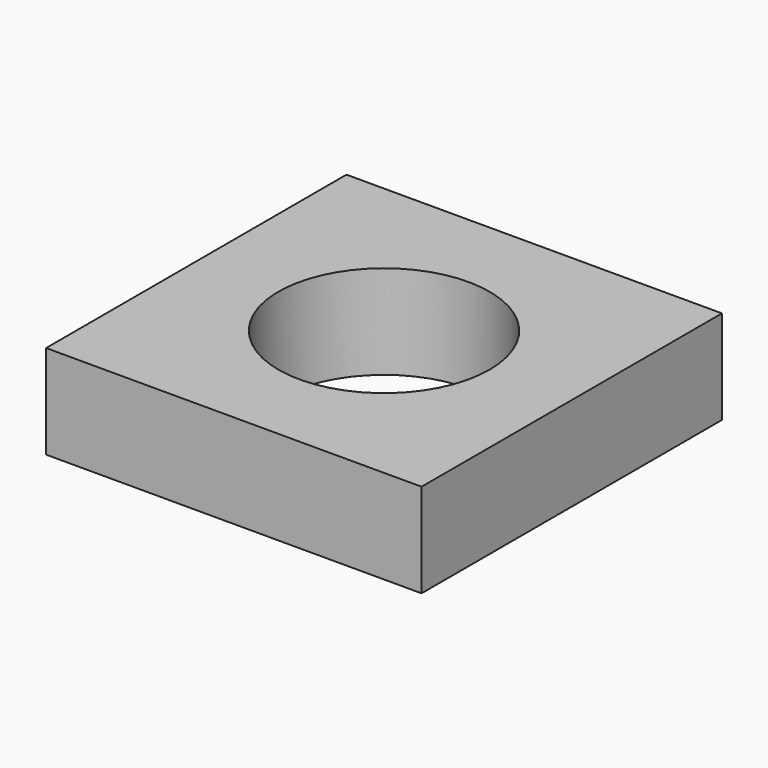
from build123d import *

# Parameters (mm, degrees)
F0_W     = 40
F0_H     = 40
F1_DEPTH = 10
F2_W     = 1.6
F2_H     = 30
F3_DEPTH = 1.25
F4_R     = 11.25
F5_DEPTH = 12.5


with BuildPart() as f1:
    # F0 (on Top) → F1 (new body)
    with BuildSketch(Plane.XY):
        Rectangle(F0_W, F0_H)
    extrude(amount=F1_DEPTH)

    # F2 (on Top) → F3 (cut, symmetric)
    with BuildSketch(Plane.XY):
        with Locations((-15, 0)):
            Rectangle(F2_W, F2_H)
        with Locations((-15, 0)):
            Rectangle(F2_W, F2_H)
        with Locations((15, 0)):
            Rectangle(F2_W, F2_H)
    extrude(amount=F3_DEPTH, both=True, mode=Mode.SUBTRACT)

    # F4 (on Top) → F5 (cut, symmetric)
    with BuildSketch(Plane.XY):
        Circle(F4_R)
    extrude(amount=F5_DEPTH, both=True, mode=Mode.SUBTRACT)


solid = f1.part
